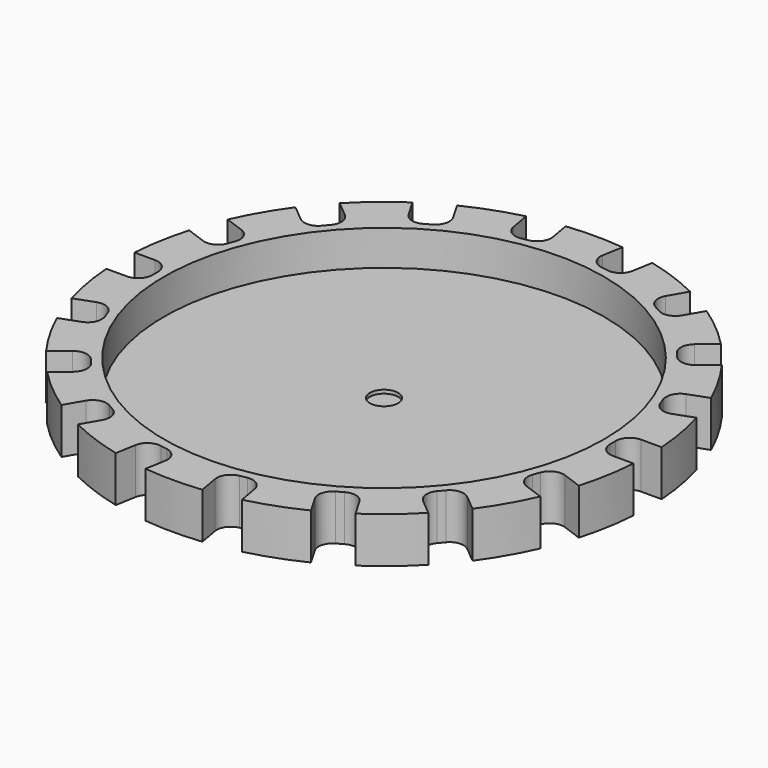
from build123d import *

# Parameters (mm, degrees)
F0_R     = 62.5
F0_R_2   = 12.7
F0_R_3   = 1.5
F0_R_4   = 4
F1_DEPTH = 3
F2_DEPTH = 13
F3_DEPTH = 9.5
F4_DEPTH = 2


with BuildPart() as f1:
    # F0 (on Top) → F1 (new body)
    with BuildSketch(Plane.XY):
        Circle(F0_R)
        Circle(F0_R_2, mode=Mode.SUBTRACT)
        Circle(F0_R_2)
        with Locations((-4.75, -8.227241)):
            Circle(F0_R_3, mode=Mode.SUBTRACT)
        with Locations((4.75, -8.227241)):
            Circle(F0_R_3, mode=Mode.SUBTRACT)
        with Locations((-9.5, 0)):
            Circle(F0_R_3, mode=Mode.SUBTRACT)
        with Locations((-4.75, 8.227241)):
            Circle(F0_R_3, mode=Mode.SUBTRACT)
        Circle(F0_R_4, mode=Mode.SUBTRACT)
        with Locations((4.75, 8.227241)):
            Circle(F0_R_3, mode=Mode.SUBTRACT)
        with Locations((9.5, 0)):
            Circle(F0_R_3, mode=Mode.SUBTRACT)
        with Locations((9.5, 0)):
            Circle(F0_R_3)
        with Locations((4.75, 8.227241)):
            Circle(F0_R_3)
        with Locations((-4.75, 8.227241)):
            Circle(F0_R_3)
        with Locations((-9.5, 0)):
            Circle(F0_R_3)
        with Locations((-4.75, -8.227241)):
            Circle(F0_R_3)
        with Locations((4.75, -8.227241)):
            Circle(F0_R_3)
    extrude(amount=F1_DEPTH)

    # F0 (on Top) → F2 (join)
    with BuildSketch(Plane.XY):
        with BuildLine():
            Line((69, 5), (74.833148, 5))
            ThreePointArc((74.833148, 5), (73.860581, 13.023613), (72.030257, 20.895981))
            Line((72.030257, 20.895981), (66.548892, 18.900927))
            ThreePointArc((66.548892, 18.900927), (63.490338, 19.034466), (61.42204, 21.291617))
            Line((61.42204, 21.291617), (60.738, 23.171002))
            ThreePointArc((60.738, 23.171002), (60.87154, 26.229556), (63.12869, 28.297853))
            Line((63.12869, 28.297853), (68.610056, 30.292907))
            ThreePointArc((68.610056, 30.292907), (64.951905, 37.5), (60.539455, 44.271598))
            Line((60.539455, 44.271598), (56.071005, 40.522123))
            ThreePointArc((56.071005, 40.522123), (53.151231, 39.601522), (50.435676, 41.01515))
            Line((50.435676, 41.01515), (49.150101, 42.547239))
            ThreePointArc((49.150101, 42.547239), (48.2295, 45.467012), (49.643129, 48.182567))
            Line((49.643129, 48.182567), (54.111579, 51.932042))
            ThreePointArc((54.111579, 51.932042), (48.209071, 57.453333), (41.746701, 62.307407))
            Line((41.746701, 62.307407), (38.830127, 57.255753))
            ThreePointArc((38.830127, 57.255753), (36.401302, 55.39205), (33.366025, 55.791651))
            Line((33.366025, 55.791651), (31.633975, 56.791651))
            ThreePointArc((31.633975, 56.791651), (29.770271, 59.220477), (30.169873, 62.255753))
            Line((30.169873, 62.255753), (33.086447, 67.307407))
            ThreePointArc((33.086447, 67.307407), (25.651511, 70.476947), (17.918678, 72.828023))
            Line((17.918678, 72.828023), (16.905763, 67.083494))
            ThreePointArc((16.905763, 67.083494), (15.260838, 64.501479), (12.271939, 63.838856))
            Line((12.271939, 63.838856), (10.302324, 64.186152))
            ThreePointArc((10.302324, 64.186152), (7.720308, 65.831077), (7.057685, 68.819976))
            Line((7.057685, 68.819976), (8.070601, 74.564505))
            ThreePointArc((8.070601, 74.564505), (0, 75), (-8.070601, 74.564505))
            Line((-8.070601, 74.564505), (-7.057685, 68.819976))
            ThreePointArc((-7.057685, 68.819976), (-7.720308, 65.831077), (-10.302324, 64.186152))
            Line((-10.302324, 64.186152), (-12.271939, 63.838856))
            ThreePointArc((-12.271939, 63.838856), (-15.260838, 64.501479), (-16.905763, 67.083494))
            Line((-16.905763, 67.083494), (-17.918678, 72.828023))
            ThreePointArc((-17.918678, 72.828023), (-25.651511, 70.476947), (-33.086447, 67.307407))
            Line((-33.086447, 67.307407), (-30.169873, 62.255753))
            ThreePointArc((-30.169873, 62.255753), (-29.770271, 59.220477), (-31.633975, 56.791651))
            Line((-31.633975, 56.791651), (-33.366025, 55.791651))
            ThreePointArc((-33.366025, 55.791651), (-36.401302, 55.39205), (-38.830127, 57.255753))
            Line((-38.830127, 57.255753), (-41.746701, 62.307407))
            ThreePointArc((-41.746701, 62.307407), (-48.209071, 57.453333), (-54.111579, 51.932042))
            Line((-54.111579, 51.932042), (-49.643129, 48.182567))
            ThreePointArc((-49.643129, 48.182567), (-48.2295, 45.467012), (-49.150101, 42.547239))
            Line((-49.150101, 42.547239), (-50.435676, 41.01515))
            ThreePointArc((-50.435676, 41.01515), (-53.151231, 39.601522), (-56.071005, 40.522123))
            Line((-56.071005, 40.522123), (-60.539455, 44.271598))
            ThreePointArc((-60.539455, 44.271598), (-64.951905, 37.5), (-68.610056, 30.292907))
            Line((-68.610056, 30.292907), (-63.12869, 28.297853))
            ThreePointArc((-63.12869, 28.297853), (-60.87154, 26.229556), (-60.738, 23.171002))
            Line((-60.738, 23.171002), (-61.42204, 21.291617))
            ThreePointArc((-61.42204, 21.291617), (-63.490338, 19.034466), (-66.548892, 18.900927))
            Line((-66.548892, 18.900927), (-72.030257, 20.895981))
            ThreePointArc((-72.030257, 20.895981), (-73.860581, 13.023613), (-74.833148, 5))
            Line((-74.833148, 5), (-69, 5))
            ThreePointArc((-69, 5), (-66.171573, 3.828427), (-65, 1))
            Line((-65, 1), (-65, -1))
            ThreePointArc((-65, -1), (-66.171573, -3.828427), (-69, -5))
            Line((-69, -5), (-74.833148, -5))
            ThreePointArc((-74.833148, -5), (-73.860581, -13.023613), (-72.030257, -20.895981))
            Line((-72.030257, -20.895981), (-66.548892, -18.900927))
            ThreePointArc((-66.548892, -18.900927), (-63.490338, -19.034466), (-61.42204, -21.291617))
            Line((-61.42204, -21.291617), (-60.738, -23.171002))
            ThreePointArc((-60.738, -23.171002), (-60.87154, -26.229556), (-63.12869, -28.297853))
            Line((-63.12869, -28.297853), (-68.610056, -30.292907))
            ThreePointArc((-68.610056, -30.292907), (-64.951905, -37.5), (-60.539455, -44.271598))
            Line((-60.539455, -44.271598), (-56.071005, -40.522123))
            ThreePointArc((-56.071005, -40.522123), (-53.151231, -39.601522), (-50.435676, -41.01515))
            Line((-50.435676, -41.01515), (-49.150101, -42.547239))
            ThreePointArc((-49.150101, -42.547239), (-48.2295, -45.467012), (-49.643129, -48.182567))
            Line((-49.643129, -48.182567), (-54.111579, -51.932042))
            ThreePointArc((-54.111579, -51.932042), (-48.209071, -57.453333), (-41.746701, -62.307407))
            Line((-41.746701, -62.307407), (-38.830127, -57.255753))
            ThreePointArc((-38.830127, -57.255753), (-36.401302, -55.39205), (-33.366025, -55.791651))
            Line((-33.366025, -55.791651), (-31.633975, -56.791651))
            ThreePointArc((-31.633975, -56.791651), (-29.770271, -59.220477), (-30.169873, -62.255753))
            Line((-30.169873, -62.255753), (-33.086447, -67.307407))
            ThreePointArc((-33.086447, -67.307407), (-25.651511, -70.476947), (-17.918678, -72.828023))
            Line((-17.918678, -72.828023), (-16.905763, -67.083494))
            ThreePointArc((-16.905763, -67.083494), (-15.260838, -64.501479), (-12.271939, -63.838856))
            Line((-12.271939, -63.838856), (-10.302324, -64.186152))
            ThreePointArc((-10.302324, -64.186152), (-7.720308, -65.831077), (-7.057685, -68.819976))
            Line((-7.057685, -68.819976), (-8.070601, -74.564505))
            ThreePointArc((-8.070601, -74.564505), (0, -75), (8.070601, -74.564505))
            Line((8.070601, -74.564505), (7.057685, -68.819976))
            ThreePointArc((7.057685, -68.819976), (7.720308, -65.831077), (10.302324, -64.186152))
            Line((10.302324, -64.186152), (12.271939, -63.838856))
            ThreePointArc((12.271939, -63.838856), (15.260838, -64.501479), (16.905763, -67.083494))
            Line((16.905763, -67.083494), (17.918678, -72.828023))
            ThreePointArc((17.918678, -72.828023), (25.651511, -70.476947), (33.086447, -67.307407))
            Line((33.086447, -67.307407), (30.169873, -62.255753))
            ThreePointArc((30.169873, -62.255753), (29.770271, -59.220477), (31.633975, -56.791651))
            Line((31.633975, -56.791651), (33.366025, -55.791651))
            ThreePointArc((33.366025, -55.791651), (36.401302, -55.39205), (38.830127, -57.255753))
            Line((38.830127, -57.255753), (41.746701, -62.307407))
            ThreePointArc((41.746701, -62.307407), (48.209071, -57.453333), (54.111579, -51.932042))
            Line((54.111579, -51.932042), (49.643129, -48.182567))
            ThreePointArc((49.643129, -48.182567), (48.2295, -45.467012), (49.150101, -42.547239))
            Line((49.150101, -42.547239), (50.435676, -41.01515))
            ThreePointArc((50.435676, -41.01515), (53.151231, -39.601522), (56.071005, -40.522123))
            Line((56.071005, -40.522123), (60.539455, -44.271598))
            ThreePointArc((60.539455, -44.271598), (64.951905, -37.5), (68.610056, -30.292907))
            Line((68.610056, -30.292907), (63.12869, -28.297853))
            ThreePointArc((63.12869, -28.297853), (60.87154, -26.229556), (60.738, -23.171002))
            Line((60.738, -23.171002), (61.42204, -21.291617))
            ThreePointArc((61.42204, -21.291617), (63.490338, -19.034466), (66.548892, -18.900927))
            Line((66.548892, -18.900927), (72.030257, -20.895981))
            ThreePointArc((72.030257, -20.895981), (73.860581, -13.023613), (74.833148, -5))
            Line((74.833148, -5), (69, -5))
            ThreePointArc((69, -5), (66.171573, -3.828427), (65, -1))
            Line((65, -1), (65, 1))
            ThreePointArc((65, 1), (66.171573, 3.828427), (69, 5))
        make_face()
        Circle(F0_R, mode=Mode.SUBTRACT)
    extrude(amount=F2_DEPTH)

    # F0 (on Top) → F3 (join)
    with BuildSketch(Plane.XY):
        Circle(F0_R_2)
        with Locations((-4.75, -8.227241)):
            Circle(F0_R_3, mode=Mode.SUBTRACT)
        with Locations((4.75, -8.227241)):
            Circle(F0_R_3, mode=Mode.SUBTRACT)
        with Locations((-9.5, 0)):
            Circle(F0_R_3, mode=Mode.SUBTRACT)
        with Locations((-4.75, 8.227241)):
            Circle(F0_R_3, mode=Mode.SUBTRACT)
        Circle(F0_R_4, mode=Mode.SUBTRACT)
        with Locations((4.75, 8.227241)):
            Circle(F0_R_3, mode=Mode.SUBTRACT)
        with Locations((9.5, 0)):
            Circle(F0_R_3, mode=Mode.SUBTRACT)
        with Locations((-4.75, 8.227241)):
            Circle(F0_R_3)
        with Locations((9.5, 0)):
            Circle(F0_R_3)
        with Locations((-4.75, -8.227241)):
            Circle(F0_R_3)
    extrude(amount=-F3_DEPTH)

    # F0 (on Top) → F4 (join)
    with BuildSketch(Plane.XY):
        Circle(F0_R_4)
    extrude(amount=F4_DEPTH)


solid = f1.part
